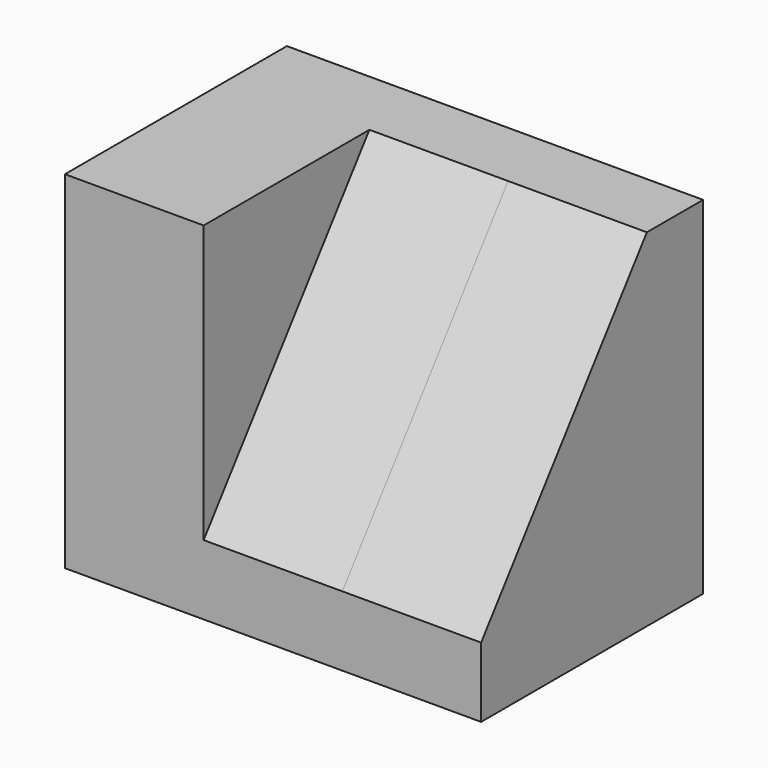
from build123d import *

# Parameters (mm, degrees)
F0_W     = 38.1
F0_H     = 31.75
F1_DEPTH = 25.4
F3_DEPTH = 12.7
F4_DEPTH = 12.7


with BuildPart() as f1:
    # F0 (on Front) → F1 (new body)
    with BuildSketch(Plane.XZ):
        with Locations((-43.824575, 35.817041)):
            Rectangle(F0_W, F0_H)
    extrude(amount=F1_DEPTH)

    # F2 (on face) → F3 (cut)
    with BuildSketch(Plane.YZ.offset(-24.774575)):
        Polygon((-25.4, 26.334951), (-6.432964, 51.692041), (-25.4, 51.692041), align=None)
    extrude(amount=-F3_DEPTH, mode=Mode.SUBTRACT)

    # F3_face (on face) → F4 (cut)
    with BuildSketch(Plane(origin=(-37.474575, -19.077655, 43.239678), x_dir=(0, 1, 0), z_dir=(1, 0, 0))):
        Polygon((-6.322345, -16.904727), (12.644691, 8.452364), (-6.322345, 8.452364), align=None)
    extrude(amount=-F4_DEPTH, mode=Mode.SUBTRACT)


solid = f1.part
